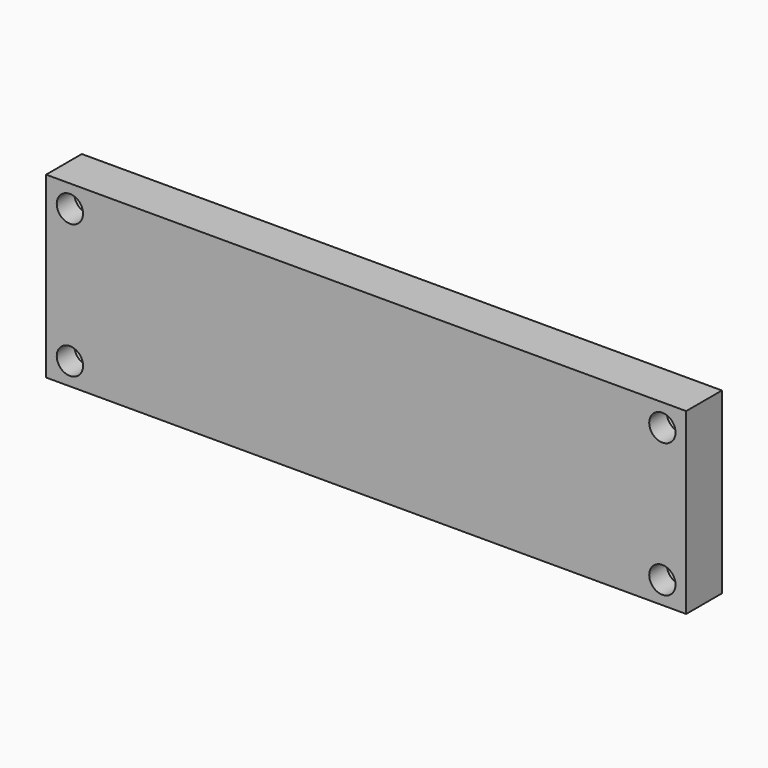
from build123d import *

# Parameters (mm, degrees)
F1_DEPTH       = 9.525
F2_D           = 5.6134
F2_DEPTH       = 9.525
F2_CBORE_D     = 8.255
F2_CBORE_DEPTH = 4.826


with BuildPart() as f1:
    # F0 (on Front) → F1 (new body)
    with BuildSketch(Plane.XZ):
        Polygon((30.1625, 19.05), (-68.2625, 19.05), (-68.2625, -19.05), (68.2625, -19.05), (68.2625, 19.05), align=None)
    extrude(amount=F1_DEPTH)

    # F2
    with Locations(Plane(origin=(0, 0, 0), x_dir=(1, 0, 0), z_dir=(0, 1, 0))):
        with Locations((-63.1825, 14.2875), (-63.1825, -14.2875), (63.1825, -14.2875), (63.1825, 14.2875)):
            CounterBoreHole(F2_D / 2, F2_CBORE_D / 2, F2_CBORE_DEPTH, depth=F2_DEPTH)


solid = f1.part
